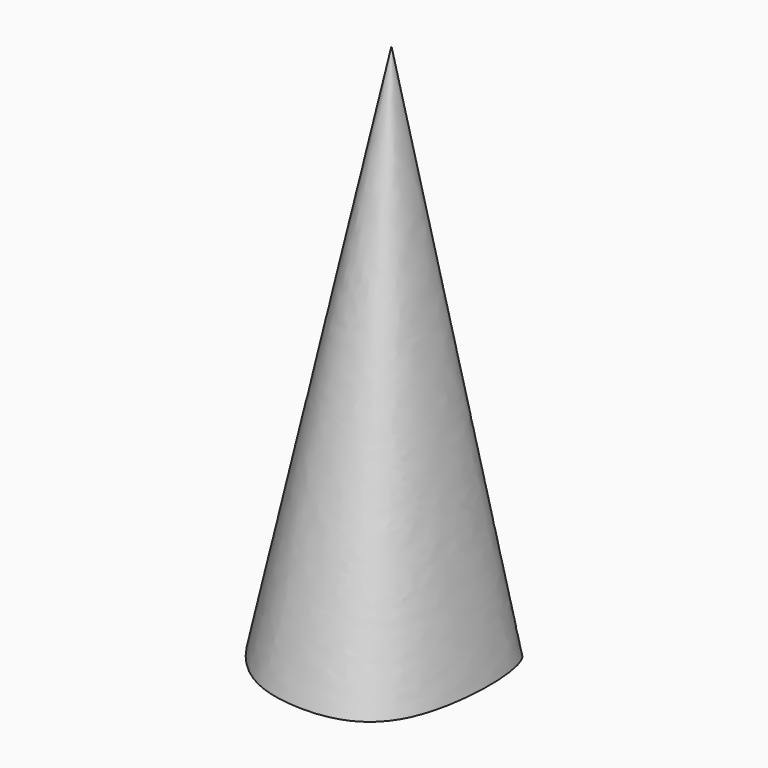
from build123d import *


with BuildPart() as f3:
    # F0 (on Top) → F3 section 0
    with BuildSketch(Plane.XY, mode=Mode.PRIVATE) as f3_s0:
        with BuildLine():
            add(Edge.make_bspline(
                [(-61.7390535772, 38.7549512088), (-65.3370386941, 22.7451906399), (-45.2337168154, -32.1938007759), (-1.2750107112, -47.3040108984), (51.1400559828, -36.9992369491), (47.0767265839, 82.6382351553), (-0.4385142017, -20.0985718015), (-43.8468631617, 59.6472817822), (-59.9099658342, 46.893744415), (-61.7390535772, 38.7549512088)],
                knots=[0, 0, 0, 0, 0.1675033015, 0.304307571, 0.4411480688, 0.6104176113, 0.7565592689, 0.9148472754, 1, 1, 1, 1], degree=3))
        make_face()
    loft([Vertex(-8.7442630902, 25.7955752313, 254), f3_s0.sketch])


solid = f3.part
